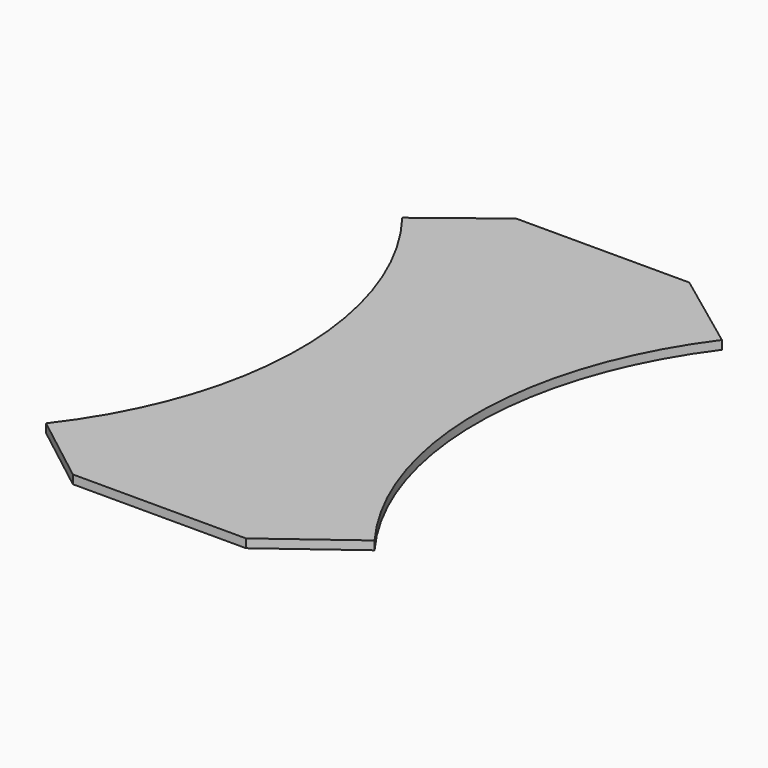
from build123d import *

# Parameters (mm, degrees)
F1_DEPTH = 19.05


with BuildPart() as f1:
    # F0 (on Top) → F1 (new body)
    with BuildSketch(Plane.XY):
        with BuildLine():
            Line((-190.5, -609.6), (0, -609.6))
            Line((0, -609.6), (190.5, -609.6))
            Line((190.5, -609.6), (367.7832, -477.668317))
            ThreePointArc((367.7832, -477.668317), (209.55, 0), (367.7832, 477.668317))
            Line((367.7832, 477.668317), (190.5, 609.6))
            Line((190.5, 609.6), (0, 609.6))
            Line((0, 609.6), (-190.5, 609.6))
            Line((-190.5, 609.6), (-345.241962, 489.799772))
            ThreePointArc((-345.241962, 489.799772), (-177.8, 0), (-345.241962, -489.799772))
            Line((-345.241962, -489.799772), (-190.5, -609.6))
        make_face()
    extrude(amount=F1_DEPTH)


solid = f1.part
